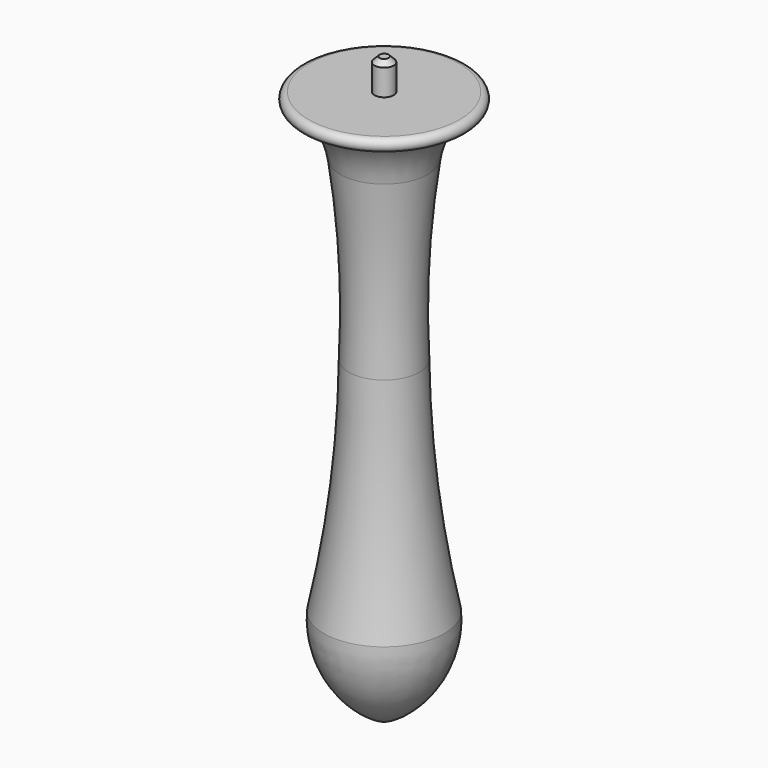
from build123d import *

# Parameters (mm, degrees)
F2_SIZE = 1.27


with BuildPart() as f1:
    # F0 (on Front) → F1 (revolve)
    with BuildSketch(Plane.XZ):
        with BuildLine():
            Line((0, 78.508926), (0, 70.660326))
            Line((0, 70.660326), (0, 67.478314))
            Line((0, 67.478314), (16.86958, 67.478314))
            Line((16.86958, 67.478314), (19.05, 67.478314))
            ThreePointArc((19.05, 67.478314), (20.641016, 69.075079), (19.038523, 70.660326))
            Line((19.038523, 70.660326), (2.413, 70.660326))
            Line((2.413, 70.660326), (2.413, 78.508926))
            Line((2.413, 78.508926), (0, 78.508926))
        make_face()
        with BuildLine():
            Line((16.86958, 67.478314), (0, 67.478314))
            Line((0, 67.478314), (0, -69.039674))
            ThreePointArc((0, -69.039674), (11.484083, -59.228488), (15.182621, -44.583887))
            ThreePointArc((15.182621, -44.583887), (10.633681, -16.787277), (8.916778, 11.326716))
            ThreePointArc((8.916778, 11.326716), (8.928533, 33.670847), (11.085724, 55.910606))
            ThreePointArc((11.085724, 55.910606), (13.013675, 62.176449), (16.86958, 67.478314))
        make_face()
    revolve(axis=Axis((0, 0, 0.810326), (0, 0, 1)))

    # F2
    f2_edges = [f1.edges().sort_by_distance(p)[0] for p in [
        (-2.413, 0, 78.508926),
    ]]
    chamfer(f2_edges, length=F2_SIZE)


solid = f1.part
